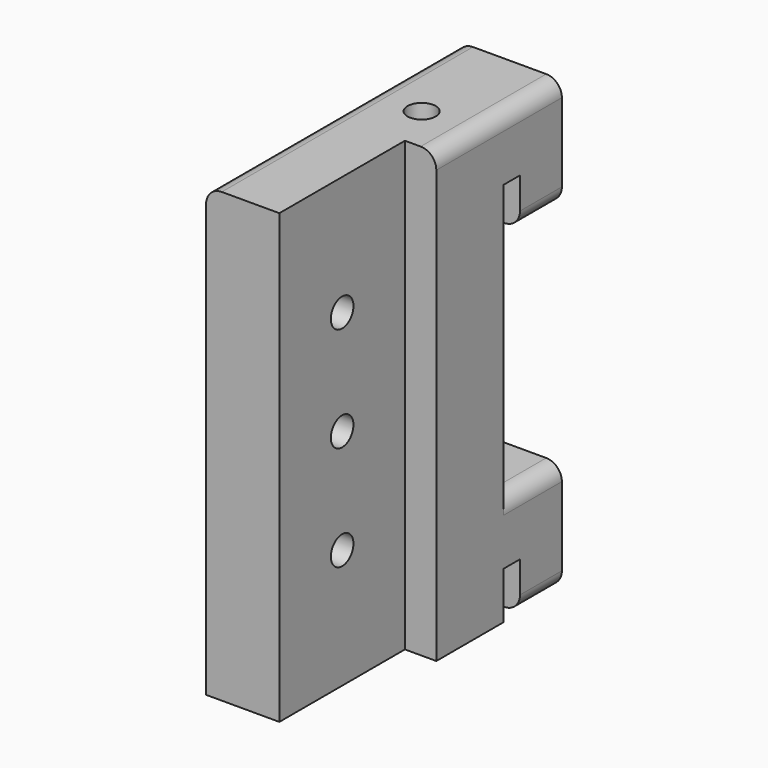
from build123d import *

# Parameters (mm, degrees)
F1_DEPTH = 10
F2_W     = 15
F2_H     = 42.8
F3_DEPTH = 3
F4_R     = 1.35
F5_DEPTH = 7.001
F6_R     = 1.35
F7_DEPTH = 15
F8_R     = 1.5


with BuildPart() as f1:
    # F0 (on Right) → F1 (new body)
    with BuildSketch(Plane.YZ):
        Polygon((7, 0), (-23, 0), (-23, -42.8), (0, -42.8), (0, -38.3), (2, -38.3), (2, -42.8), (7, -42.8), (7, -32.3), (0, -32.3), (0, -6), (2, -6), (2, -10.5), (7, -10.5), align=None)
    extrude(amount=F1_DEPTH)

    # F2 (on face) → F3 (cut)
    with BuildSketch(Plane.YZ.offset(10)):
        with Locations((-15.5, -21.4)):
            Rectangle(F2_W, F2_H)
    extrude(amount=-F3_DEPTH, mode=Mode.SUBTRACT)

    # F4 (on face) → F5 (cut, through all)
    with BuildSketch(Plane.YZ.offset(7)):
        with Locations((-15.5, -21.4)):
            Circle(F4_R)
        with Locations((-15.5, -11.4)):
            Circle(F4_R)
        with Locations((-15.5, -31.4)):
            Circle(F4_R)
    extrude(amount=-F5_DEPTH, mode=Mode.SUBTRACT)

    # F6 (on face) → F7 (cut)
    with BuildSketch(Plane.XY):
        with Locations((5, -3.5)):
            Circle(F6_R)
    extrude(amount=-F7_DEPTH, mode=Mode.SUBTRACT)

    # F8
    f8_edges = [f1.edges().sort_by_distance(p)[0] for p in [
        (10, -0.5, 0),
        (0, -8, 0),
        (10, 4.5, -10.5),
        (10, 3.5, -32.3),
        (10, 4.5, -42.8),
        (0, 4.5, -10.5),
        (0, 4.5, -42.8),
        (0, 3.5, -32.3),
    ]]
    fillet(f8_edges, radius=F8_R)


solid = f1.part
